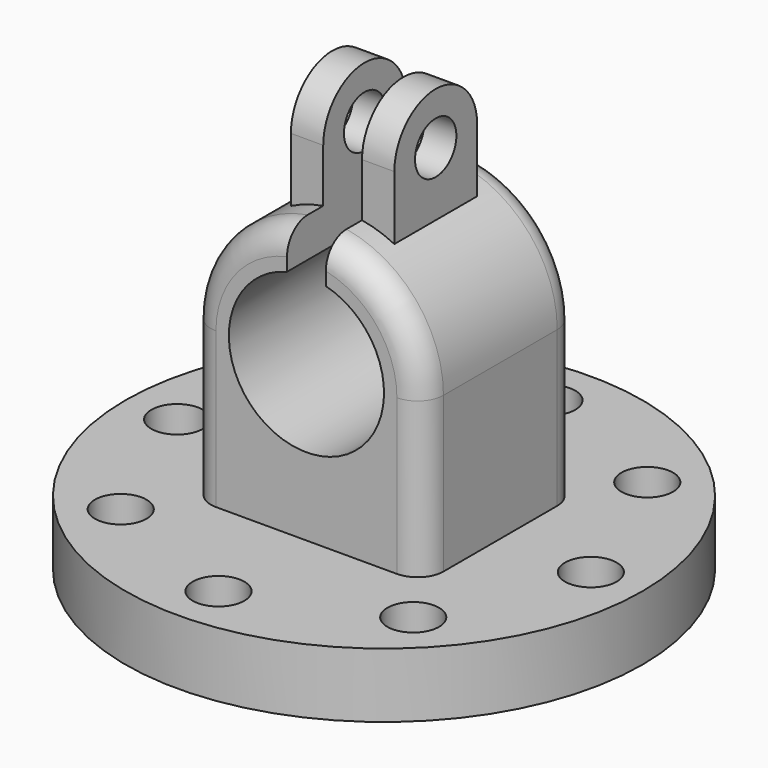
from build123d import *

# Parameters (mm, degrees)
SKETCH_R           = 20
PAD_DEPTH          = 5
PAD001_DEPTH       = 7.5
PAD002_DEPTH       = 4
SKETCH003_R        = 2
POCKET_DEPTH       = 24.001
POCKET001_DEPTH    = 27.501
SKETCH005_R        = 2
POCKET002_DEPTH    = 137.001
POLARPATTERN_COUNT = 8
FILLET_R           = 2


with BuildPart() as part:
    # Sketch → Pad (new body)
    with BuildSketch(Plane.XY):
        Circle(SKETCH_R)
    extrude(amount=PAD_DEPTH)

    # Sketch001 → Pad001 (join, symmetric)
    with BuildSketch(Plane.XZ):
        with BuildLine():
            Line((9, 17), (9, 5))
            Line((9, 5), (-9, 5))
            Line((-9, 5), (-9, 17))
            ThreePointArc((9, 17), (0, 26), (-9, 17))
        make_face()
    extrude(amount=PAD001_DEPTH, both=True)

    # Sketch002 → Pad002 (join, symmetric)
    with BuildSketch(Plane.YZ):
        with BuildLine():
            Line((-4, 14), (-4, 30))
            ThreePointArc((4, 30), (0, 34), (-4, 30))
            Line((4, 30), (4, 14))
            Line((4, 14), (-4, 14))
        make_face()
    extrude(amount=PAD002_DEPTH, both=True)

    # Sketch003 (on Face9 of Pad002) → Pocket (cut, through all)
    with BuildSketch(Plane(origin=(-4, 0, 0), x_dir=(0, -1, 0), z_dir=(-1, 0, 0))):
        with Locations((0, 30)):
            Circle(SKETCH003_R)
    extrude(amount=-POCKET_DEPTH, mode=Mode.SUBTRACT)

    # Sketch004 (on Face4 of Pocket) → Pocket001 (cut, through all)
    with BuildSketch(Plane(origin=(0, 7.5, 0), x_dir=(-1, 0, 0), z_dir=(0, 1, 0))):
        with BuildLine():
            ThreePointArc((-1.5, 22.809475), (0, 11), (1.5, 22.809475))
            Line((1.5, 38), (1.5, 22.809475))
            Line((-1.5, 38), (1.5, 38))
            Line((-1.5, 22.809475), (-1.5, 38))
        make_face()
    extrude(amount=-POCKET001_DEPTH, mode=Mode.SUBTRACT)

    # Sketch005 (on Face3 of Pocket001) → Pocket002 (cut, through all)
    with BuildSketch(Plane.XY.offset(5)):
        with Locations((16, 0)):
            Circle(SKETCH005_R)
    pocket002 = extrude(amount=-POCKET002_DEPTH, mode=Mode.SUBTRACT)

    # PolarPattern: Pocket002 ×8 about axis
    polarpattern_axis = Axis((0, 0, 5), (0, 0, 1))
    for i in range(1, POLARPATTERN_COUNT):
        add(pocket002.rotate(polarpattern_axis, i * 360 / POLARPATTERN_COUNT), mode=Mode.SUBTRACT)

    # Fillet
    fillet_edges = [part.edges().sort_by_distance(p)[0] for p in [
        (-6.873864, 7.5, 22.809475),
        (6.873864, 7.5, 22.809475),
        (6.873864, -7.5, 22.809475),
        (-6.873864, -7.5, 22.809475),
    ]]
    fillet(fillet_edges, radius=FILLET_R)


solid = part.part
